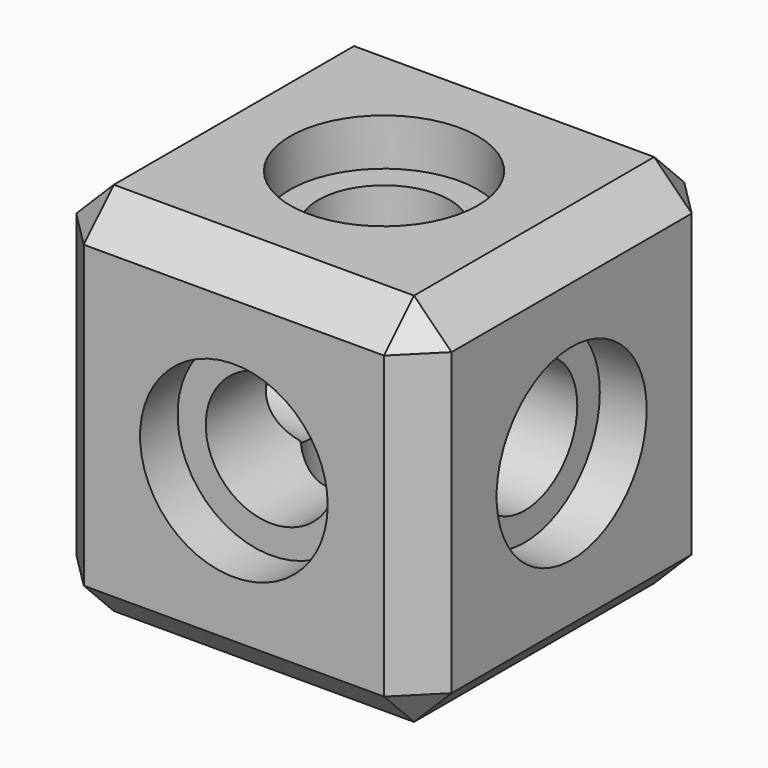
from build123d import *

# Parameters (mm, degrees)
F0_W          = 25.4
F0_H          = 25.4
F1_DEPTH      = 12.7
F1_DEPTH_BACK = 12.7
F2_R          = 4.445
F8_DEPTH      = 25.4
F4_R          = 4.445
F9_DEPTH      = 25.4
F6_R          = 4.445
F10_DEPTH     = 25.4
F2_R_2        = 6.35
F11_DEPTH     = 3.175
F3_R          = 6.35
F3_R_2        = 4.445
F12_DEPTH     = 3.175
F4_R_2        = 6.35
F13_DEPTH     = 3.175
F5_R          = 6.35
F5_R_2        = 4.445
F14_DEPTH     = 3.175
F6_R_2        = 6.35
F15_DEPTH     = 3.175
F7_R          = 6.35
F7_R_2        = 4.445
F16_DEPTH     = 3.175
F17_SIZE      = 2.54


with BuildPart() as f1:
    # F0 (on Front) → F1 (new body, two sides)
    with BuildSketch(Plane.XZ) as f1_sk:
        Rectangle(F0_W, F0_H)
    extrude(amount=F1_DEPTH)
    extrude(f1_sk.sketch, amount=-F1_DEPTH_BACK)

    # F2 (on face) → F8 (cut)
    with BuildSketch(Plane.XY.offset(12.7)):
        Circle(F2_R)
    extrude(amount=-F8_DEPTH, mode=Mode.SUBTRACT)

    # F4 (on face) → F9 (cut)
    with BuildSketch(Plane.XZ.offset(12.7)):
        Circle(F4_R)
    extrude(amount=-F9_DEPTH, mode=Mode.SUBTRACT)

    # F6 (on face) → F10 (cut)
    with BuildSketch(Plane.YZ.offset(12.7)):
        Circle(F6_R)
    extrude(amount=-F10_DEPTH, mode=Mode.SUBTRACT)

    # F2 (on face) → F11 (cut)
    with BuildSketch(Plane.XY.offset(12.7)):
        Circle(F2_R_2)
        Circle(F2_R, mode=Mode.SUBTRACT)
    extrude(amount=-F11_DEPTH, mode=Mode.SUBTRACT)

    # F3 (on face) → F12 (cut)
    with BuildSketch(Plane(origin=(0, 0, -12.7), x_dir=(1, 0, 0), z_dir=(0, 0, -1))):
        Circle(F3_R)
        Circle(F3_R_2, mode=Mode.SUBTRACT)
    extrude(amount=-F12_DEPTH, mode=Mode.SUBTRACT)

    # F4 (on face) → F13 (cut)
    with BuildSketch(Plane.XZ.offset(12.7)):
        Circle(F4_R_2)
        Circle(F4_R, mode=Mode.SUBTRACT)
    extrude(amount=-F13_DEPTH, mode=Mode.SUBTRACT)

    # F5 (on face) → F14 (cut)
    with BuildSketch(Plane(origin=(0, 12.7, 0), x_dir=(-1, 0, 0), z_dir=(0, 1, 0))):
        Circle(F5_R)
        Circle(F5_R_2, mode=Mode.SUBTRACT)
    extrude(amount=-F14_DEPTH, mode=Mode.SUBTRACT)

    # F6 (on face) → F15 (cut)
    with BuildSketch(Plane.YZ.offset(12.7)):
        Circle(F6_R_2)
        Circle(F6_R, mode=Mode.SUBTRACT)
    extrude(amount=-F15_DEPTH, mode=Mode.SUBTRACT)

    # F7 (on face) → F16 (cut)
    with BuildSketch(Plane(origin=(-12.7, 0, 0), x_dir=(0, -1, 0), z_dir=(-1, 0, 0))):
        Circle(F7_R)
        Circle(F7_R_2, mode=Mode.SUBTRACT)
    extrude(amount=-F16_DEPTH, mode=Mode.SUBTRACT)

    # F17
    f17_edges = [f1.edges().sort_by_distance(p)[0] for p in [
        (12.7, -12.7, 0),
        (0, -12.7, -12.7),
        (-12.7, -12.7, 0),
        (0, -12.7, 12.7),
        (12.7, 0, -12.7),
        (-12.7, 0, -12.7),
        (0, 12.7, -12.7),
        (12.7, 12.7, 0),
        (12.7, 0, 12.7),
        (0, 12.7, 12.7),
        (-12.7, 0, 12.7),
        (-12.7, 12.7, 0),
    ]]
    chamfer(f17_edges, length=F17_SIZE)


solid = f1.part
